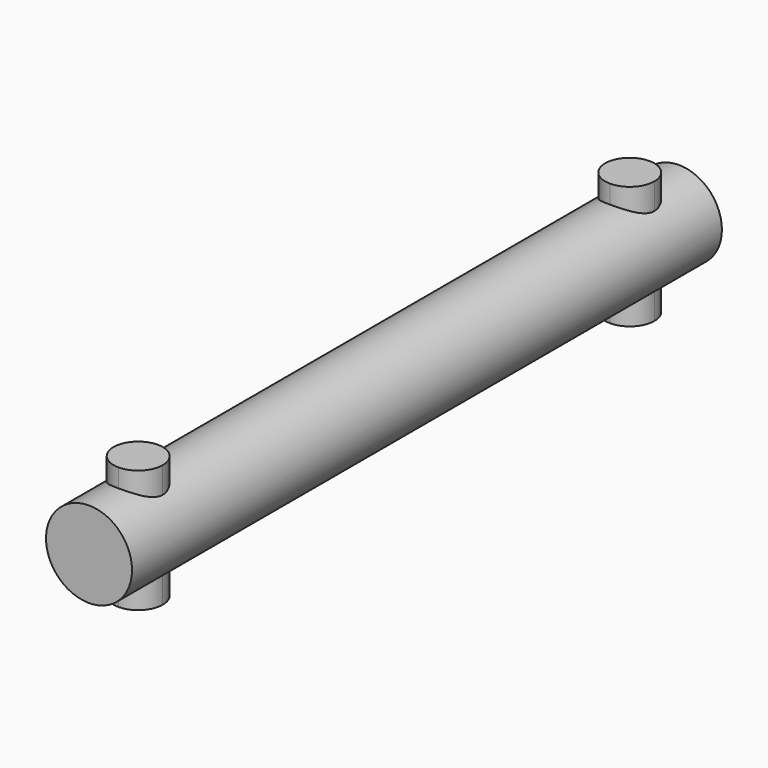
from build123d import *

# Parameters (mm, degrees)
F0_R     = 3.5
F1_DEPTH = 60
F3_DEPTH = 5


with BuildPart() as f1:
    # F0 (on Front) → F1 (new body)
    with BuildSketch(Plane.XZ):
        Circle(F0_R)
    extrude(amount=F1_DEPTH)

    # F2 (on Top) → F3 (join, symmetric)
    with BuildSketch(Plane.XY):
        with BuildLine():
            Line((0, -7), (0, -3))
            ThreePointArc((0, -3), (-2, -5), (0, -7))
        make_face()
        with BuildLine():
            ThreePointArc((2, -5), (1.414214, -3.585786), (0, -3))
            Line((0, -3), (0, -7))
            ThreePointArc((0, -7), (1.414214, -6.414214), (2, -5))
        make_face()
        with BuildLine():
            ThreePointArc((2, -55), (1.414214, -53.585786), (0, -53))
            Line((0, -53), (0, -57))
            ThreePointArc((0, -57), (1.414214, -56.414214), (2, -55))
        make_face()
        with BuildLine():
            Line((0, -57), (0, -53))
            ThreePointArc((0, -53), (-2, -55), (0, -57))
        make_face()
    extrude(amount=F3_DEPTH, both=True)


solid = f1.part
